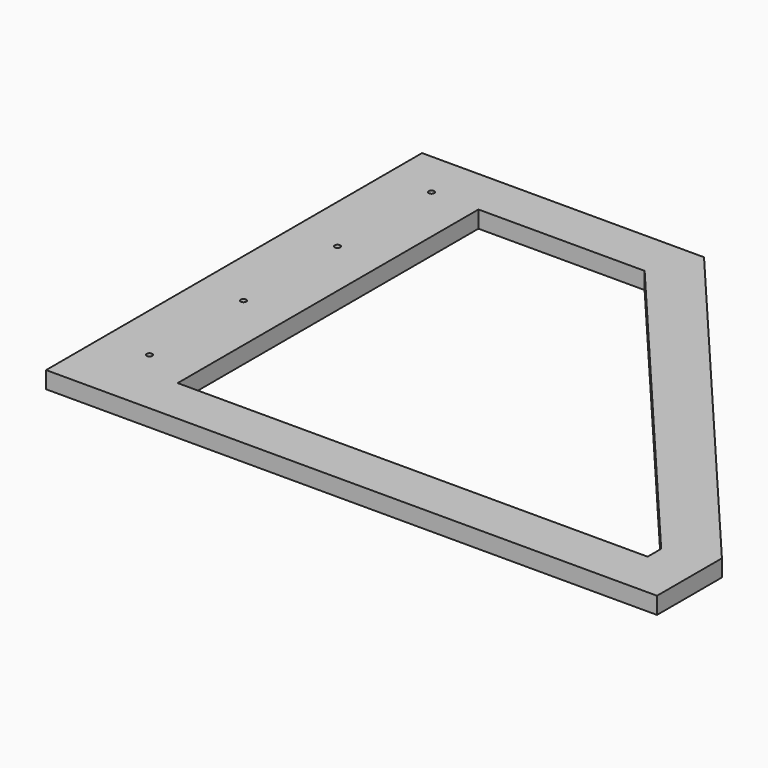
from build123d import *

# Parameters (mm, degrees)
F1_DEPTH = 18


with BuildPart() as f1:
    # F0 (on Top) → F1 (new body)
    with BuildSketch(Plane.XY):
        Polygon((0, 50), (0, 0), (550, 0), (550, 86.313705), (200, 500), (0, 500), (0, 450), (176.808244, 450), (500, 68), (500, 50), align=None)
        with BuildLine():
            Line((-50, 0), (0, 0))
            Line((0, 0), (0, 50))
            Line((0, 50), (0, 450))
            Line((0, 450), (0, 500))
            Line((0, 500), (-50, 500))
            Line((-50, 500), (-50, 453))
            ThreePointArc((-50, 453), (-47.87868, 452.12132), (-47, 450))
            ThreePointArc((-47, 450), (-47.87868, 447.87868), (-50, 447))
            Line((-50, 447), (-50, 328))
            ThreePointArc((-50, 328), (-47.87868, 327.12132), (-47, 325))
            ThreePointArc((-47, 325), (-47.87868, 322.87868), (-50, 322))
            Line((-50, 322), (-50, 203))
            ThreePointArc((-50, 203), (-47.87868, 202.12132), (-47, 200))
            ThreePointArc((-47, 200), (-47.87868, 197.87868), (-50, 197))
            Line((-50, 197), (-50, 78))
            ThreePointArc((-50, 78), (-47.87868, 77.12132), (-47, 75))
            ThreePointArc((-47, 75), (-47.87868, 72.87868), (-50, 72))
            Line((-50, 72), (-50, 0))
        make_face()
        with BuildLine():
            Line((-100, 0), (-50, 0))
            Line((-50, 0), (-50, 72))
            ThreePointArc((-50, 72), (-53, 75), (-50, 78))
            Line((-50, 78), (-50, 197))
            ThreePointArc((-50, 197), (-53, 200), (-50, 203))
            Line((-50, 203), (-50, 322))
            ThreePointArc((-50, 322), (-53, 325), (-50, 328))
            Line((-50, 328), (-50, 447))
            ThreePointArc((-50, 447), (-53, 450), (-50, 453))
            Line((-50, 453), (-50, 500))
            Line((-50, 500), (-100, 500))
            Line((-100, 500), (-100, 0))
        make_face()
    extrude(amount=F1_DEPTH)


solid = f1.part
